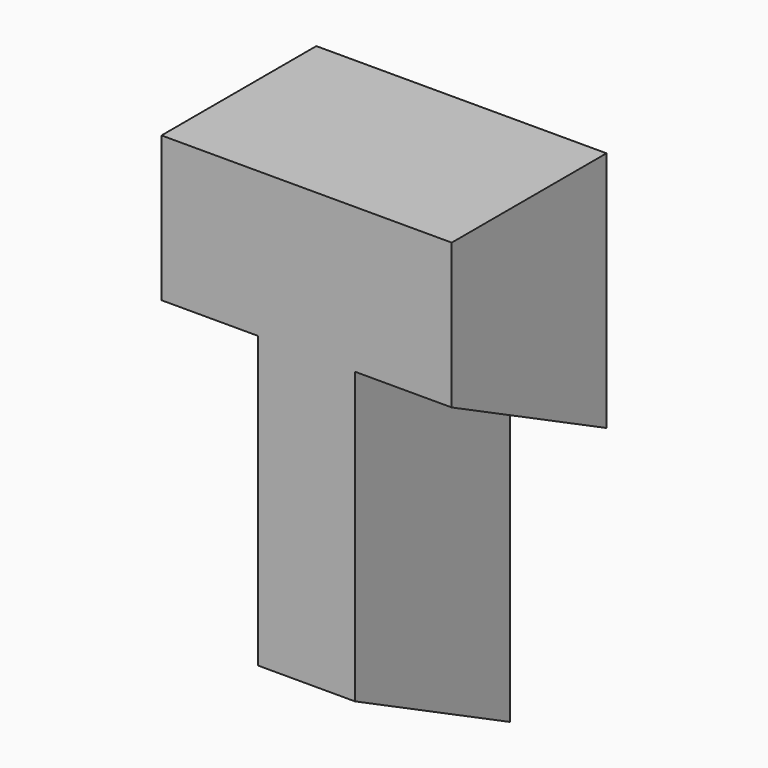
from build123d import *

# Parameters (mm, degrees)
F1_DEPTH = 25.4
F3_DEPTH = 25.4
F5_DEPTH = 12.7
F7_DEPTH = 12.7


with BuildPart() as f1:
    # F0 (on Front) → F1 (new body)
    with BuildSketch(Plane.XZ):
        Polygon((0, 38.1), (0, 0), (12.7, 0), (12.7, 38.1), (25.4, 38.1), (25.4, 69.85), (-12.7, 69.85), (-12.7, 38.1), align=None)
    extrude(amount=F1_DEPTH)

    # F2 (on face) → F3 (cut)
    with BuildSketch(Plane.YZ.offset(12.7)):
        Polygon((0, 0), (-25.4, 12.7), (-25.4, 0), align=None)
    extrude(amount=-F3_DEPTH, mode=Mode.SUBTRACT)

    # F4 (on face) → F5 (cut)
    with BuildSketch(Plane.YZ.offset(25.4)):
        Polygon((0, 38.1), (-25.4, 50.8), (-25.4, 38.1), align=None)
    extrude(amount=-F5_DEPTH, mode=Mode.SUBTRACT)

    # F6 (on face) → F7 (cut)
    with BuildSketch(Plane(origin=(-12.7, 0, 0), x_dir=(0, -1, 0), z_dir=(-1, 0, 0))):
        Polygon((25.4, 38.1), (25.4, 50.8), (0, 38.1), align=None)
    extrude(amount=-F7_DEPTH, mode=Mode.SUBTRACT)


solid = f1.part
